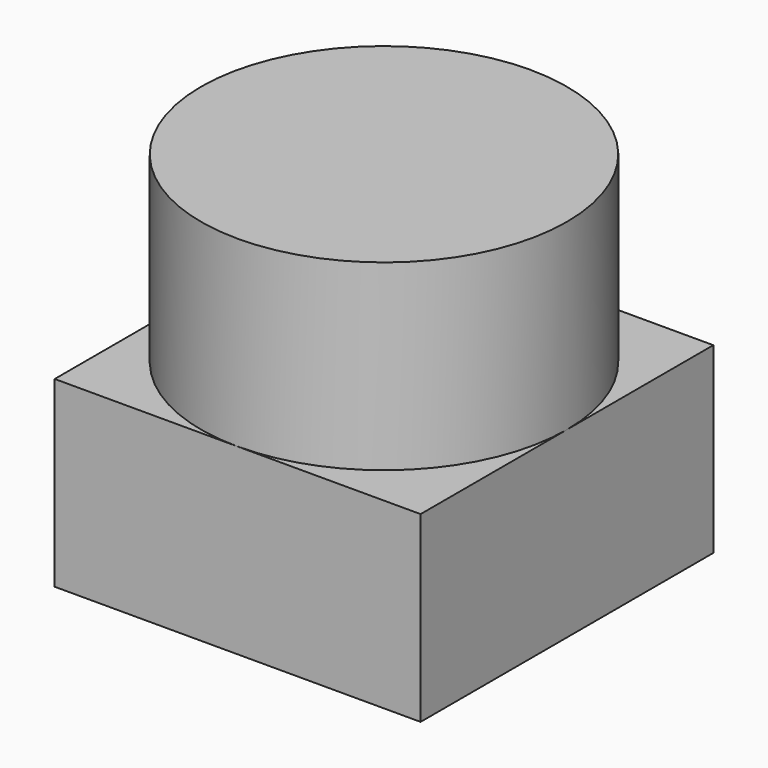
from build123d import *

# Parameters (mm, degrees)
SKETCH_W     = 20
SKETCH_H     = 20
PAD_DEPTH    = 10
SKETCH001_R  = 10
PAD001_DEPTH = 10


with BuildPart() as part:
    # Sketch → Pad (new body)
    with BuildSketch(Plane.XY):
        Rectangle(SKETCH_W, SKETCH_H)
    extrude(amount=PAD_DEPTH)

    # Sketch001 (on Face6 of Pad) → Pad001 (join)
    with BuildSketch(Plane.XY.offset(10)):
        Circle(SKETCH001_R)
    extrude(amount=PAD001_DEPTH)


solid = part.part
